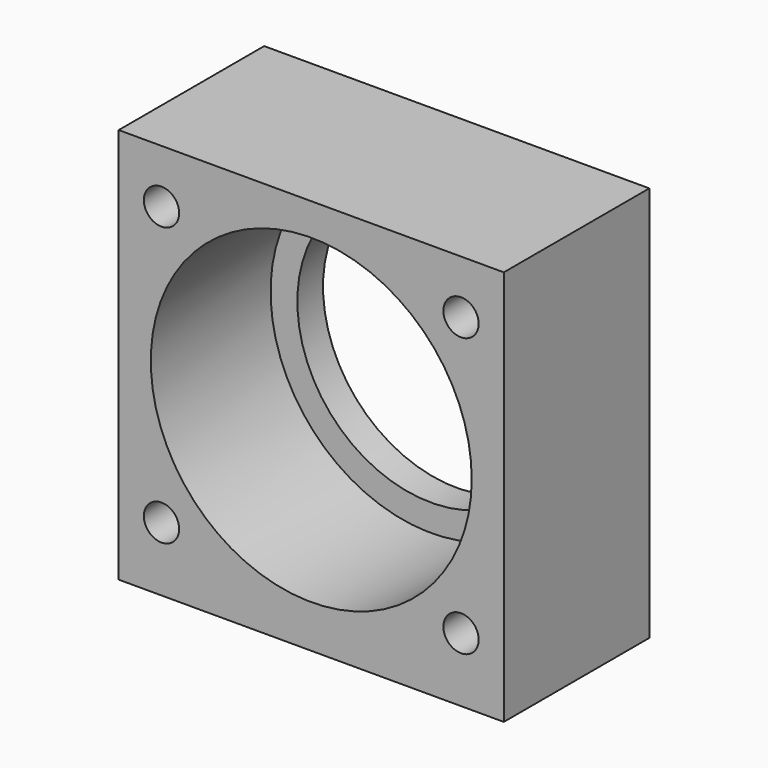
from build123d import *

# Parameters (mm, degrees)
F0_W     = 36
F0_H     = 37
F0_R     = 15
F1_DEPTH = 14
F0_R_2   = 12.5
F2_DEPTH = 3
F3_R     = 1.65
F4_DEPTH = 5
F5_R     = 2.5
F6_DEPTH = 8


with BuildPart() as f1:
    # F0 (on Front) → F1 (new body)
    with BuildSketch(Plane.XZ):
        with Locations((0, -0.5)):
            Rectangle(F0_W, F0_H)
        Circle(F0_R, mode=Mode.SUBTRACT)
    extrude(amount=F1_DEPTH)

    # F0 (on Front) → F2 (join)
    with BuildSketch(Plane.XZ):
        with Locations((0, -0.5)):
            Rectangle(F0_W, F0_H)
        Circle(F0_R, mode=Mode.SUBTRACT)
        Circle(F0_R)
        Circle(F0_R_2, mode=Mode.SUBTRACT)
    extrude(amount=-F2_DEPTH)

    # F3 (on face) → F4 (cut)
    with BuildSketch(Plane.XZ.offset(14)):
        with Locations((-14, 13)):
            Circle(F3_R)
        with Locations((-14, -13)):
            Circle(F3_R)
        with Locations((14, -13)):
            Circle(F3_R)
        with Locations((14, 13)):
            Circle(F3_R)
    extrude(amount=-F4_DEPTH, mode=Mode.SUBTRACT)

    # F5 (on face) → F6 (cut)
    with BuildSketch(Plane(origin=(0, 0, -19), x_dir=(1, 0, 0), z_dir=(0, 0, -1))):
        with Locations((-13, 5.5)):
            Circle(F5_R)
        with Locations((13, 5.5)):
            Circle(F5_R)
    extrude(amount=-F6_DEPTH, mode=Mode.SUBTRACT)


solid = f1.part
